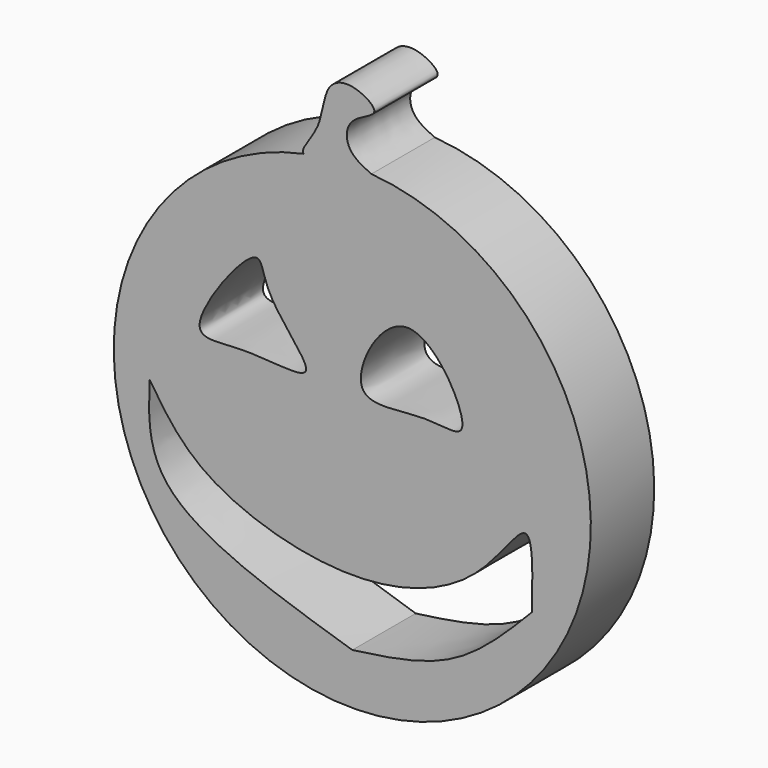
from build123d import *

# Parameters (mm, degrees)
F0_R     = 57.3483289895
F1_DEPTH = 19.05
F3_DEPTH = 25.4
F5_DEPTH = 25.4
F7_DEPTH = 19.05


with BuildPart() as f1:
    # F0 (on Front) → F1 (new body)
    with BuildSketch(Plane.XZ):
        Circle(F0_R)
    extrude(amount=F1_DEPTH)

    # F2 (on face) → F3 (cut)
    with BuildSketch(Plane.XZ.offset(19.05)):
        with BuildLine():
            add(Edge.make_bspline(
                [(-23.4891753644, 30.3891189396), (-26.9243462131, 29.3261471725), (-43.8241472686, 6.7674878607), (-25.7144645045, 11.219787571), (-3.9489905031, 6.7260151454), (-21.870073942, 22.9172690362), (-21.5791825731, 30.9801429387), (-23.4891753644, 30.3891189396)],
                knots=[0, 0, 0, 0, 0.2569281893, 0.434766476, 0.6402442022, 0.8571450996, 1, 1, 1, 1], degree=3))
        make_face()
        with BuildLine():
            add(Edge.make_bspline(
                [(2.3489200976, 11.3041652367), (0.6518734071, 15.6093314814), (13.1405461793, 39.8038013278), (31.7417025879, 6.2437005075), (17.3532122345, 11.1919894341), (3.8569723329, 7.4784510619), (2.3489200976, 11.3041652367)],
                knots=[0, 0, 0, 0, 0.2769288375, 0.5667888033, 0.7539118076, 1, 1, 1, 1], degree=3))
        make_face()
    extrude(amount=-F3_DEPTH, mode=Mode.SUBTRACT)

    # F4 (on face) → F5 (cut)
    with BuildSketch(Plane.XZ.offset(19.05)):
        with BuildLine():
            add(Edge.make_bspline(
                [(-48.7400367856, -3.6701834761), (-45.2089169003, -9.0776656429), (-36.9396806976, -21.7409987361), (0.3583468312, -33.1698702748), (30.44288108, -22.9968507414), (43.7507924182, 0.4321353545), (43.3582988271, -15.2033765472), (43.1613586843, -23.0487529188)],
                knots=[0, 0, 0, 0, 0.1858644389, 0.435260483, 0.6696244944, 0.8342286328, 1, 1, 1, 1], degree=3))
            add(Edge.make_bspline(
                [(-48.7400367856, -3.6701834761), (-49.0149064772, -10.9787822738), (-49.7111522028, -29.4914842131), (-18.742555771, -39.1963541969), (0, -45.0698547065)],
                knots=[0, 0, 0, 0, 0.3947883362, 1, 1, 1, 1], degree=3))
            add(Edge.make_bspline(
                [(0, -45.0698547065), (8.3152344196, -43.9431045773), (25.0683890157, -41.6729798697), (37.1009966236, -29.2870631847), (43.1613586843, -23.0487529188)],
                knots=[0, 0, 0, 0, 0.4963384282, 1, 1, 1, 1], degree=3))
        make_face()
    extrude(amount=-F5_DEPTH, mode=Mode.SUBTRACT)

    # F6 (on Front) → F7 (join)
    with BuildSketch(Plane.XZ):
        with BuildLine():
            add(Edge.make_bspline(
                [(-11.7445876822, 56.2272109091), (-10.8549881926, 55.0305335455), (-0.4754771669, 57.598890257), (8.119414425, 56.1149537556), (-1.7910564131, 59.2320467817), (-1.728184934, 67.8446462416), (8.4481205684, 70.0633250708), (-0.3355573929, 75.4010266697), (-7.0755293062, 72.8011766288), (-6.865462498, 62.8374485579), (-12.4417473706, 57.1650208199), (-11.7445876822, 56.2272109091)],
                knots=[0, 0, 0, 0, 0.141981767, 0.237166611, 0.3402103238, 0.447806184, 0.5535227706, 0.657872915, 0.7588278557, 0.8887319905, 1, 1, 1, 1], degree=3))
        make_face()
    extrude(amount=F7_DEPTH)


solid = f1.part
